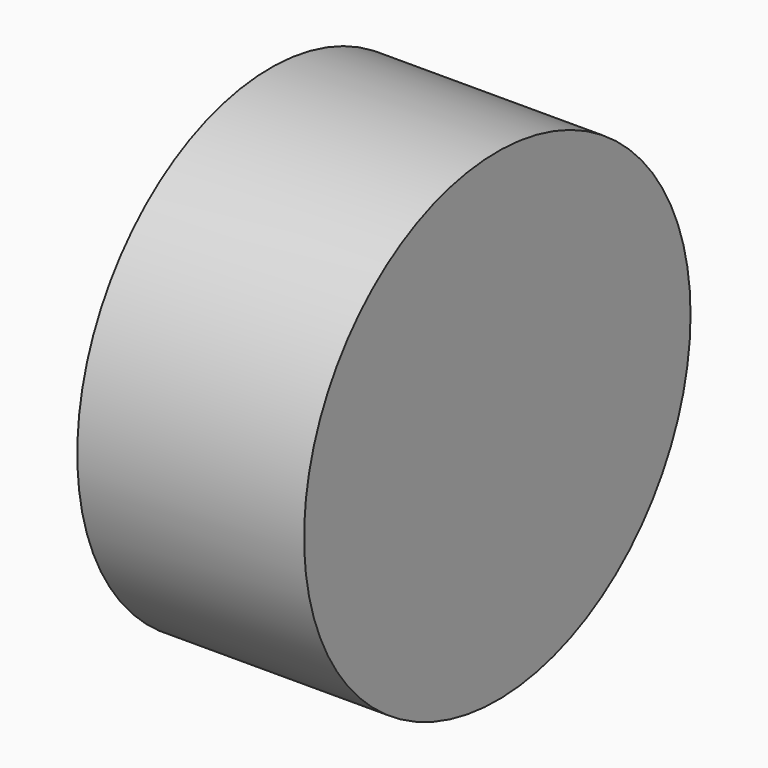
from build123d import *


with BuildPart() as f1:
    # F0 (on Top) → F1 (revolve)
    with BuildSketch(Plane.XY):
        with BuildLine():
            add(Edge.make_bspline(
                [(17.3, 0), (17.5688969569, 4.165498134), (17.2771412725, 9.3726794605), (8.3171678707, 18.4160228819), (0, 18.75)],
                knots=[0, 0, 0, 0, 0.4140148513, 1, 1, 1, 1], degree=3))
            Line((17.3, 0), (27, 0))
            Line((27, 0), (27, 28.75))
            Line((27, 28.75), (0, 28.75))
            Line((0, 28.75), (0, 18.75))
        make_face()
    revolve(axis=Axis((22.15, 0, 0), (1, 0, 0)))


solid = f1.part
